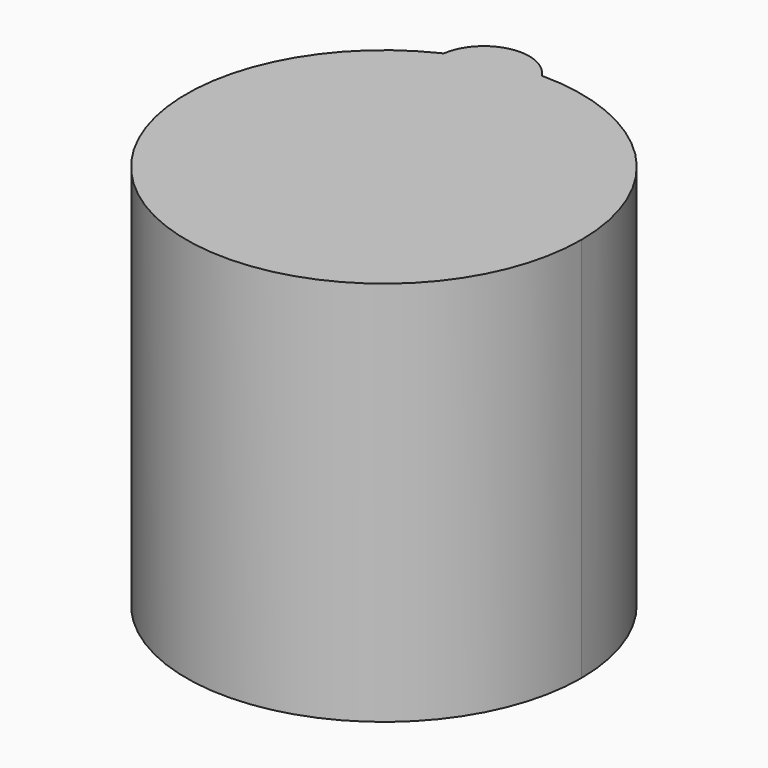
from build123d import *

# Parameters (mm, degrees)
F1_DEPTH = 25.4


with BuildPart() as f1:
    # F0 (on Top) → F1 (new body)
    with BuildSketch(Plane.XY):
        with BuildLine():
            ThreePointArc((-5.666227, 11.700165), (-6.904312, -11.015011), (13, 0))
            ThreePointArc((13, 0), (9.192388, 9.192388), (0, 13))
            ThreePointArc((0, 13), (-2.81171, 12.692292), (-5.490315, 11.783736))
            ThreePointArc((-5.490315, 11.783736), (-5.578428, 11.74228), (-5.666227, 11.700165))
        make_face()
        with BuildLine():
            ThreePointArc((-5.490315, 11.783736), (-2.81171, 12.692292), (0, 13))
            ThreePointArc((0, 13), (-3.167762, 14.299538), (-5.490315, 11.783736))
        make_face()
    extrude(amount=F1_DEPTH)


solid = f1.part
